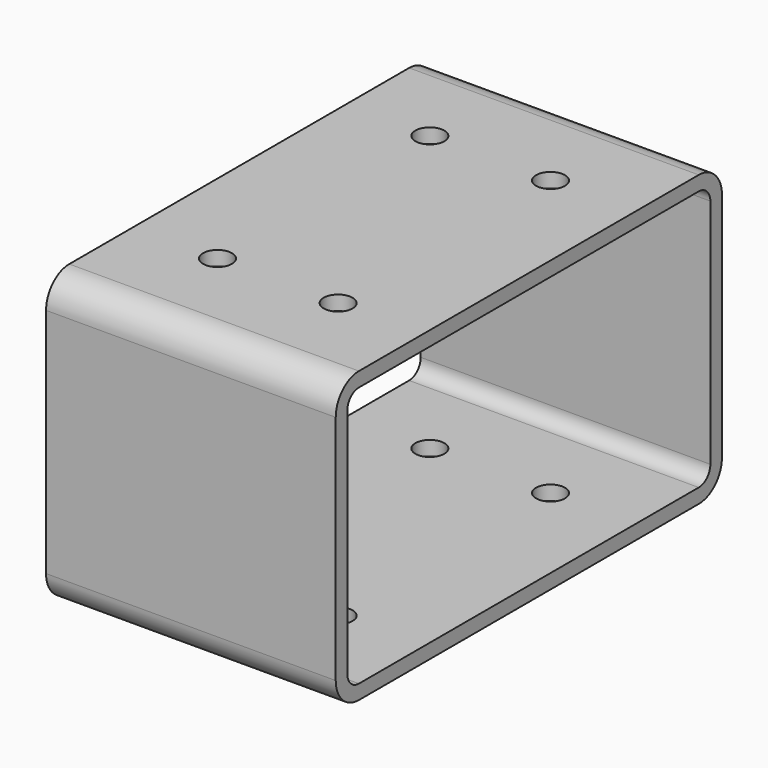
from build123d import *

# Parameters (mm, degrees)
F1_DEPTH = 60
F3_D     = 6


with BuildPart() as f1:
    # F0 (on Right) → F1 (new body)
    with BuildSketch(Plane.YZ):
        with BuildLine():
            Line((-94, 0), (-6, 0))
            ThreePointArc((-6, 0), (-1.757359, 1.757359), (0, 6))
            Line((0, 6), (0, 54))
            ThreePointArc((0, 54), (-1.757359, 58.242641), (-6, 60))
            Line((-6, 60), (-94, 60))
            ThreePointArc((-94, 60), (-98.242641, 58.242641), (-100, 54))
            Line((-100, 54), (-100, 6))
            ThreePointArc((-100, 6), (-98.242641, 1.757359), (-94, 0))
        make_face()
        with BuildLine():
            ThreePointArc((-94, 3), (-96.12132, 3.87868), (-97, 6))
            Line((-97, 6), (-97, 54))
            ThreePointArc((-97, 54), (-96.12132, 56.12132), (-94, 57))
            Line((-94, 57), (-6, 57))
            ThreePointArc((-6, 57), (-3.87868, 56.12132), (-3, 54))
            Line((-3, 54), (-3, 6))
            ThreePointArc((-3, 6), (-3.87868, 3.87868), (-6, 3))
            Line((-6, 3), (-94, 3))
        make_face(mode=Mode.SUBTRACT)
    extrude(amount=F1_DEPTH)

    # F3 (through all)
    with Locations(Plane.XY.offset(60)):
        with Locations((17.5, -22.5), (42.5, -22.5), (17.5, -77.5), (42.5, -77.5)):
            Hole(F3_D / 2)


solid = f1.part
